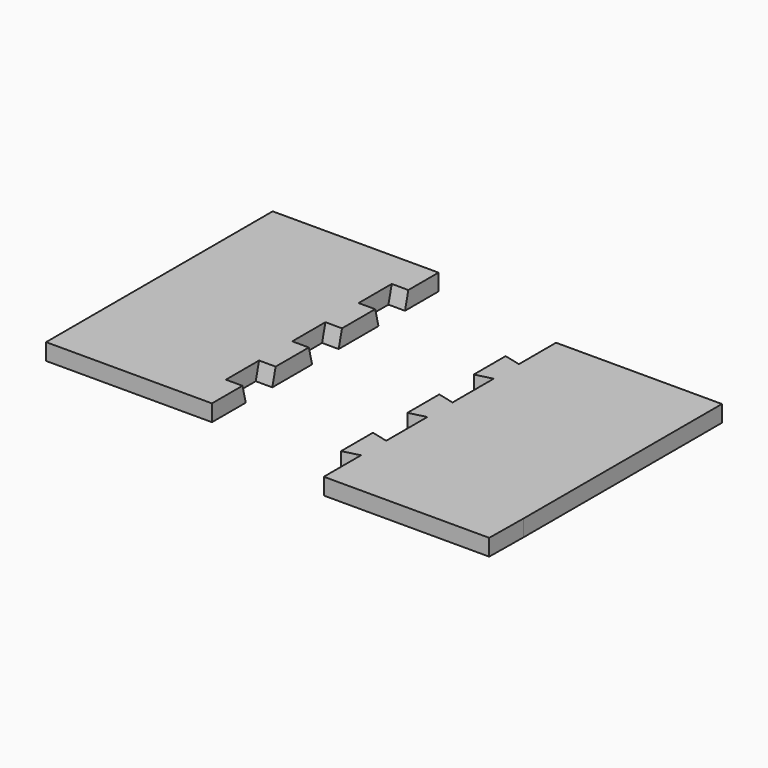
from build123d import *

# Parameters (mm, degrees)
F1_DEPTH = 2
F2_SIZE2 = 1.9999999952
F2_SIZE  = 0.5


with BuildPart() as f1:
    # F0 (on Top) → F1 (new body)
    with BuildSketch(Plane.XY):
        Polygon((-7.3831789805, 34.15), (-27.3831789805, 34.15), (-27.3831789805, 0), (-7.3831789805, 0), (-7.3831789805, 5.1), (-9.3831789805, 5.1), (-9.3831789805, 9.1), (-7.3831789805, 9.1), (-7.3831789805, 15.1), (-9.3831789805, 15.1), (-9.3831789805, 19.1), (-7.3831789805, 19.1), (-7.3831789805, 25.1), (-9.3831789805, 25.1), (-9.3831789805, 29.1), (-7.3831789805, 29.1), align=None)
    extrude(amount=F1_DEPTH)

    # F2
    f2_edges = [f1.edges().sort_by_distance(p)[0] for p in [
        (-8.383179, 29.1, 2),
        (-8.383179, 25.1, 2),
        (-8.383179, 19.1, 2),
        (-8.383179, 15.1, 2),
        (-8.383179, 9.1, 2),
        (-8.383179, 5.1, 2),
    ]]
    f2_side = f1.faces().sort_by_distance((-17.710948, 17.07409, 2))[0]
    chamfer(f2_edges, length=F2_SIZE, length2=F2_SIZE2, reference=f2_side)


with BuildPart() as f1b:
    # F0 (on Top) → F1, piece 2 (new body)
    with BuildSketch(Plane.XY):
        Polygon((30.1869153638, 29.9), (10.1869153638, 29.9), (10.1869153638, 24.8), (10.1869153638, 24.3), (10.1869153638, 20.5), (10.1869153638, 20), (10.1869153638, 14.8), (10.1869153638, 14.3), (10.1869153638, 10.5), (10.1869153638, 10), (10.1869153638, 4.8), (10.1869153638, 4.3), (10.1869153638, 0.5), (10.1869153638, 0), (10.1869153638, -5.1), (30.1274638623, -5.1), (30.1869153638, 0), align=None)
        Polygon((10.1869153638, 20.5), (10.1869153638, 24.3), (8.1869153638, 24.8), (8.1869153638, 20), align=None)
        Polygon((8.1869153638, 0), (10.1869153638, 0.5), (10.1869153638, 4.3), (8.1869153638, 4.8), align=None)
        Polygon((10.1869153638, 10.5), (10.1869153638, 14.3), (8.1869153638, 14.8), (8.1869153638, 10), align=None)
    extrude(amount=F1_DEPTH)


solid = Compound([f1.part, f1b.part])
